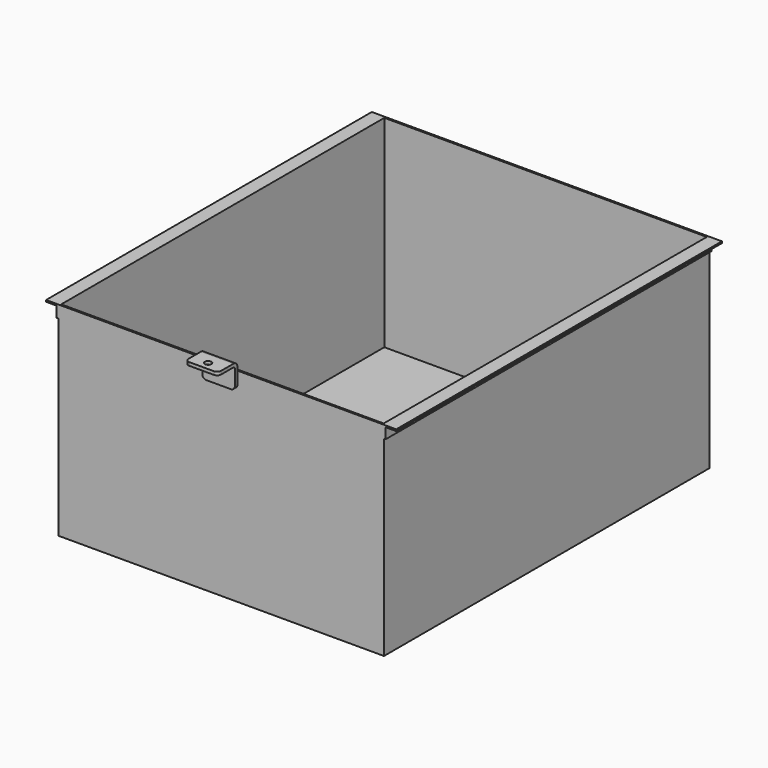
from build123d import *

# Parameters (mm, degrees)
F0_W      = 400
F0_H      = 500
F1_DEPTH  = 2
F2_W      = 400
F2_H      = 500
F2_W_2    = 396
F2_H_2    = 496
F3_DEPTH  = 248
F5_DEPTH  = 500
F7_DEPTH  = 20
F8_R      = 5
F10_R     = 4
F11_DEPTH = 25
F12_R     = 5


with BuildPart() as f1:
    # F0 (on Top) → F1 (new body)
    with BuildSketch(Plane.XY):
        Rectangle(F0_W, F0_H)
    extrude(amount=F1_DEPTH)

    # F2 (on face) → F3 (join)
    with BuildSketch(Plane.XY.offset(2)):
        Rectangle(F2_W, F2_H)
        Rectangle(F2_W_2, F2_H_2, mode=Mode.SUBTRACT)
    extrude(amount=F3_DEPTH)

    # F4 (on face) → F5 (join)
    with BuildSketch(Plane.XZ.offset(250)):
        Polygon((215, 250), (200, 250), (200, 235), (202, 235), (202, 248), (215, 248), align=None)
        Polygon((-200, 235), (-200, 250), (-215, 250), (-215, 248), (-202, 248), (-202, 235), align=None)
    extrude(amount=-F5_DEPTH)

    # F6 (on Right) → F7 (join, symmetric)
    with BuildSketch(Plane.YZ):
        with BuildLine():
            Line((-256, 260), (-280, 260))
            Line((-280, 260), (-280, 256))
            Line((-280, 256), (-256, 256))
            ThreePointArc((-256, 256), (-254.585786, 255.414214), (-254, 254))
            Line((-254, 254), (-254, 230))
            Line((-254, 230), (-250, 230))
            Line((-250, 230), (-250, 254))
            ThreePointArc((-250, 254), (-251.757359, 258.242641), (-256, 260))
        make_face()
    extrude(amount=F7_DEPTH, both=True)

    # F8
    f8_edges = [f1.edges().sort_by_distance(p)[0] for p in [
        (20, -280, 258),
        (-20, -280, 258),
    ]]
    fillet(f8_edges, radius=F8_R)

    # F10 (on face) → F11 (cut)
    with BuildSketch(Plane.XY.offset(260)):
        with Locations((0, -270)):
            Circle(F10_R)
    extrude(amount=-F11_DEPTH, mode=Mode.SUBTRACT)

    # F12
    f12_edges = [f1.edges().sort_by_distance(p)[0] for p in [
        (20, -252, 230),
        (-20, -252, 230),
    ]]
    fillet(f12_edges, radius=F12_R)


solid = f1.part
